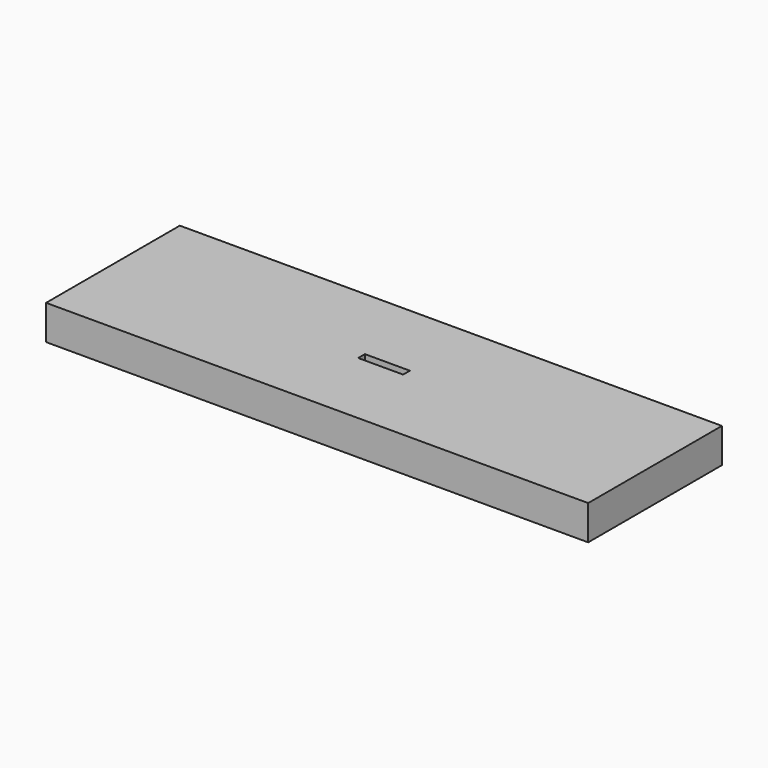
from build123d import *

# Parameters (mm, degrees)
F1_DEPTH = 19.558


with BuildPart() as f1:
    # F0 (on Top) → F1 (new body)
    with BuildSketch(Plane.XY):
        Polygon((91.65114, 0), (0, 0), (0, -94.483525), (306.3875, -94.483525), (306.3875, 0), align=None)
        Polygon((165.89375, -49.623013), (153.19375, -49.623013), (140.49375, -49.623013), (140.49375, -44.860513), (153.19375, -44.860513), (165.89375, -44.860513), align=None, mode=Mode.SUBTRACT)
    extrude(amount=F1_DEPTH)


solid = f1.part
